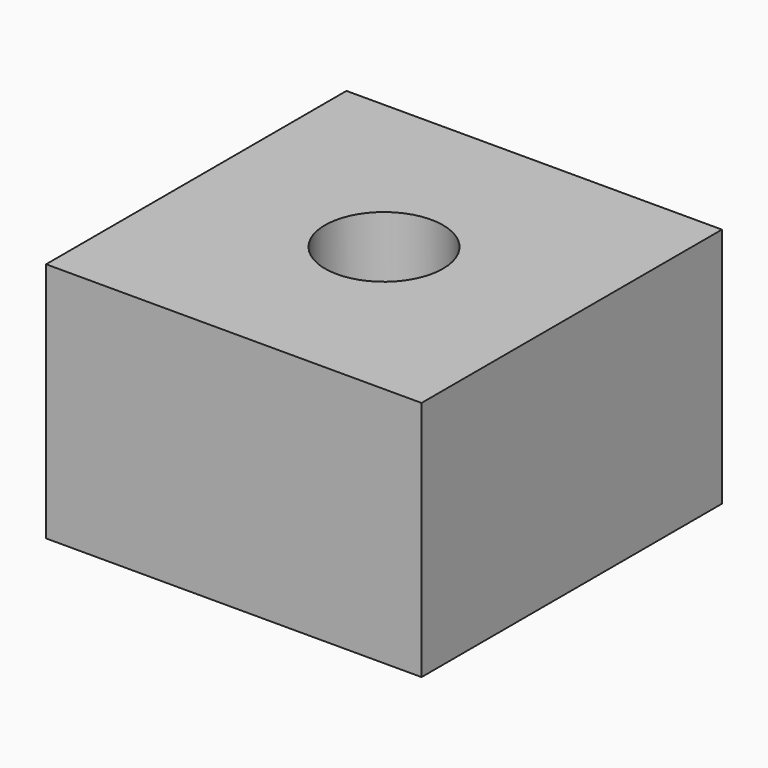
from build123d import *

# Parameters (mm, degrees)
CYLINDER_R     = 1.1
CYLINDER_DEPTH = 10
BOX008_W       = 7
BOX008_H       = 7
BOX008_DEPTH   = 4.5


with BuildPart() as hole:
    # Cylinder → Cylinder (new body)
    with BuildSketch(Plane.XY):
        Circle(CYLINDER_R)
    extrude(amount=CYLINDER_DEPTH)


with BuildPart() as stand_hole_cut:
    # Box008 → Box008 (new body)
    with BuildSketch(Plane(origin=(-3.5, -3.5, 0), x_dir=(1, 0, 0), z_dir=(0, 0, 1))):
        with Locations((3.5, 3.5)):
            Rectangle(BOX008_W, BOX008_H)
    extrude(amount=BOX008_DEPTH)

    # Cut003002: cut hole
    add(hole.part, mode=Mode.SUBTRACT)


solid = stand_hole_cut.part
